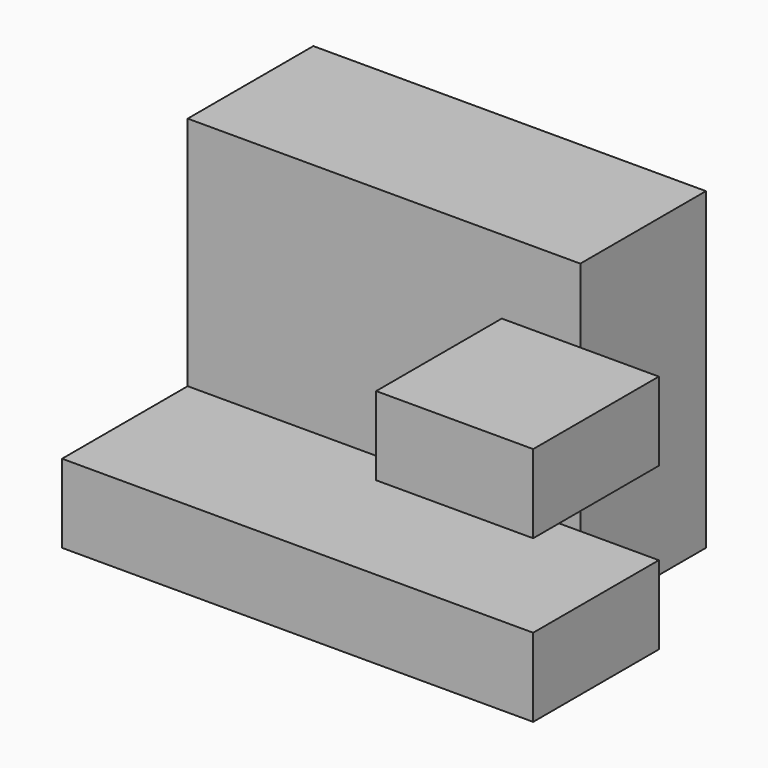
from build123d import *

# Parameters (mm, degrees)
F0_W     = 1524
F0_H     = 1016
F1_DEPTH = 1016
F2_W     = 254
F2_H     = 508
F3_DEPTH = 1524
F5_DEPTH = 508


with BuildPart() as f1:
    # F0 (on Front) → F1 (new body)
    with BuildSketch(Plane.XZ):
        with Locations((-18.253883, -14.982007)):
            Rectangle(F0_W, F0_H)
    extrude(amount=F1_DEPTH)

    # F2 (on face) → F3 (cut)
    with BuildSketch(Plane.XY.offset(493.017993)):
        with Locations((616.746117, -254)):
            Rectangle(F2_W, F2_H)
    extrude(amount=-F3_DEPTH, mode=Mode.SUBTRACT)

    # F4 (on face) → F5 (cut)
    with BuildSketch(Plane.XZ.offset(1016)):
        Polygon((743.746117, 493.017993), (-780.253883, 493.017993), (-780.253883, -268.982007), (743.746117, -268.982007), (743.746117, 0), (235.746117, 0), (235.746117, 254), (743.746117, 254), align=None)
    extrude(amount=-F5_DEPTH, mode=Mode.SUBTRACT)


solid = f1.part
